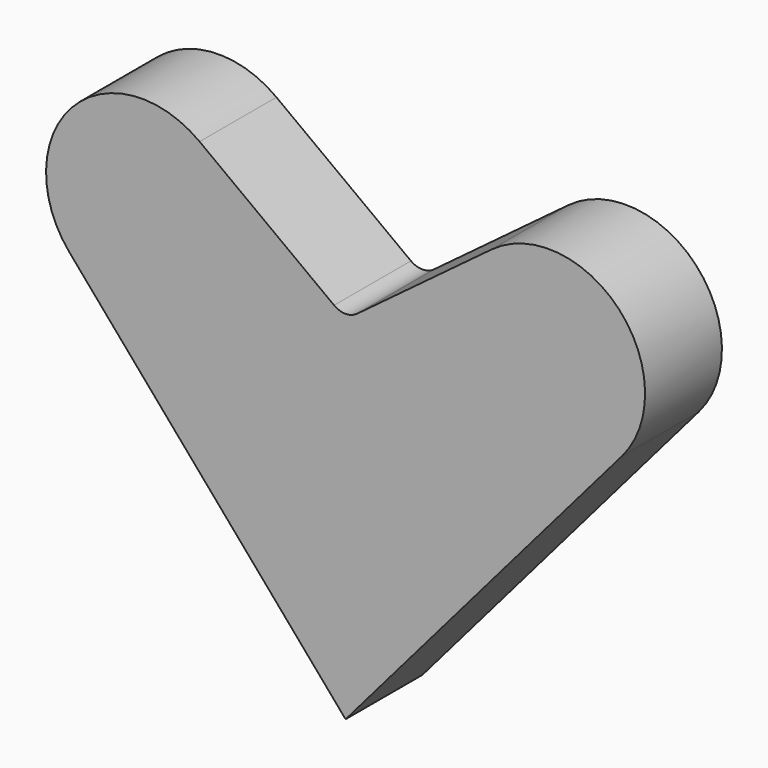
from build123d import *

# Parameters (mm, degrees)
F1_DEPTH = 25.4
F2_DEPTH = 25.4
F3_R     = 5.08


with BuildPart() as f1:
    # F0 (on Front) → F1 (new body)
    with BuildSketch(Plane.XZ):
        with BuildLine():
            Line((-5.174372, -8.435566), (-43.773927, 20.35916))
            ThreePointArc((-43.773927, 20.35916), (-77.531681, 17.329487), (-78.223706, -16.556881))
            Line((-78.223706, -16.556881), (-5.174372, -101.541841))
            Line((-5.174372, -101.541841), (67.874961, -16.556881))
            ThreePointArc((67.874961, -16.556881), (67.182936, 17.329487), (33.425183, 20.35916))
            Line((33.425183, 20.35916), (-5.174372, -8.435566))
        make_face()
    extrude(amount=F1_DEPTH)

    # F0 (on Front) → F2 (join)
    with BuildSketch(Plane.XZ):
        with BuildLine():
            Line((-5.174372, -8.435566), (-43.773927, 20.35916))
            ThreePointArc((-43.773927, 20.35916), (-77.531681, 17.329487), (-78.223706, -16.556881))
            Line((-78.223706, -16.556881), (-5.174372, -101.541841))
            Line((-5.174372, -101.541841), (67.874961, -16.556881))
            ThreePointArc((67.874961, -16.556881), (67.182936, 17.329487), (33.425183, 20.35916))
            Line((33.425183, 20.35916), (-5.174372, -8.435566))
        make_face()
    extrude(amount=F2_DEPTH)

    # F3
    f3_edges = [f1.edges().sort_by_distance(p)[0] for p in [
        (-5.174372, -12.7, -8.435566),
    ]]
    fillet(f3_edges, radius=F3_R)


solid = f1.part
